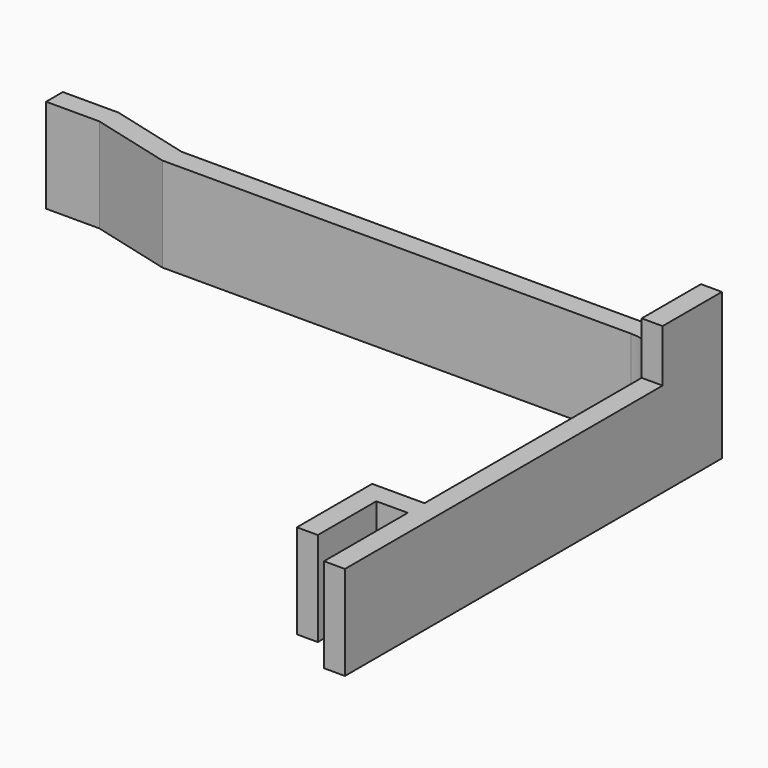
from build123d import *

# Parameters (mm, degrees)
F1_DEPTH = 9
F2_W     = 2
F2_H     = 7.08
F3_DEPTH = 5


with BuildPart() as f1:
    # F0 (on Top) → F1 (new body)
    with BuildSketch(Plane.XY):
        with BuildLine():
            Line((55, 12), (55, 3.0099))
            Line((55, 3.0099), (57, 3.0099))
            Line((57, 3.0099), (57, 10))
            Line((57, 10), (60, 10))
            Line((60, 10), (60, 0))
            Line((60, 0), (62, 0))
            Line((62, 0), (62, 45))
            Line((62, 45), (10.396367, 45))
            Line((10.396367, 45), (2.776367, 47))
            Line((2.776367, 47), (-2.54, 47))
            Line((-2.54, 47), (-2.54, 45))
            Line((-2.54, 45), (2.54, 45))
            Line((2.54, 45), (10.16, 43))
            Line((10.16, 43), (54.92, 43))
            ThreePointArc((54.92, 43), (58.512102, 41.512102), (60, 37.92))
            Line((60, 37.92), (60, 12))
            Line((60, 12), (55, 12))
        make_face()
    extrude(amount=F1_DEPTH)

    # F2 (on face) → F3 (join)
    with BuildSketch(Plane.XY.offset(9)):
        with Locations((61, 41.46)):
            Rectangle(F2_W, F2_H)
    extrude(amount=F3_DEPTH)


solid = f1.part
